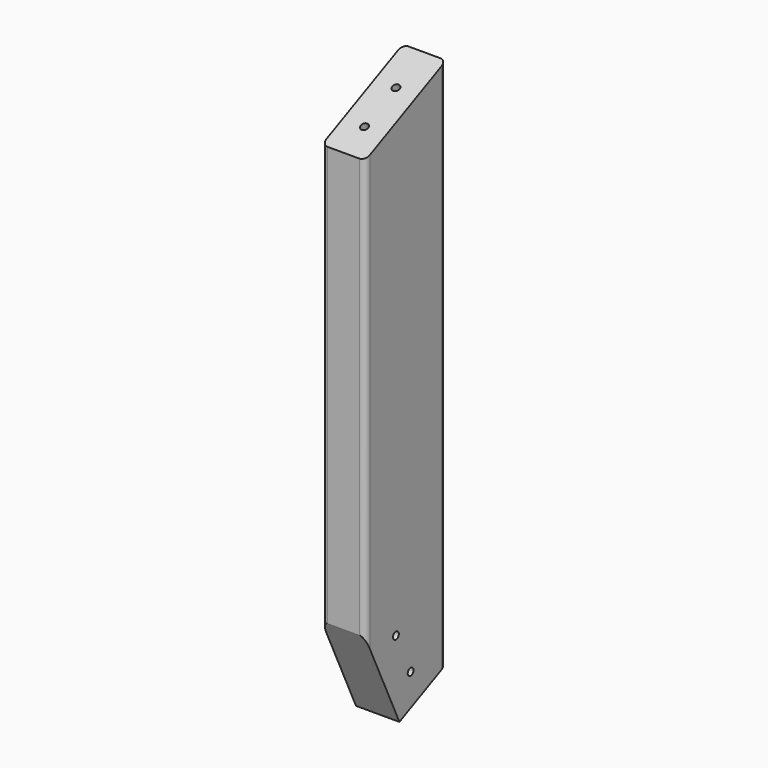
from build123d import *

# Parameters (mm, degrees)
F0_W     = 38.1
F0_H     = 88.9
F1_DEPTH = 254
F3_DEPTH = 38.101
F5_D     = 6.35
F6_R     = 5.08
F8_D     = 6.35
F8_DEPTH = 25.4
F8_TIP   = 1.9077324654


with BuildPart() as f1:
    # F0 (on Top) → F1 (new body, symmetric)
    with BuildSketch(Plane.XY):
        Rectangle(F0_W, F0_H)
    extrude(amount=F1_DEPTH, both=True)

    # F2 (on face) → F3 (cut, through all)
    with BuildSketch(Plane.YZ.offset(19.05)):
        Polygon((-44.45, 254), (-44.45, 212.54524919), (44.45, 254), align=None)
        Polygon((-6.8792365313, -236.4804652718), (-44.45, -254), (44.45, -254), (44.45, -212.54524919), align=None)
        Polygon((-44.45, -155.9097030042), (-44.45, -254), (-6.8792365313, -236.4804652718), align=None)
    extrude(amount=-F3_DEPTH, mode=Mode.SUBTRACT)

    # F5 (through all)
    with Locations(Plane.YZ.offset(19.05)):
        with Locations((-10.6952783611, -168.1954169468), (5.4064774113, -202.7257436328)):
            Hole(F5_D / 2)

    # F6
    f6_edges = [f1.edges().sort_by_distance(p)[0] for p in [
        (19.05, -44.45, 28.317773),
        (-19.05, -44.45, 28.317773),
        (19.05, 44.45, 20.727375),
        (-19.05, 44.45, 20.727375),
    ]]
    fillet(f6_edges, radius=F6_R)

    # F8
    with Locations(Plane(origin=(0, -89.3485989014, 191.6086886819), x_dir=(1, 0, 0), z_dir=(0, -0.4226182617, 0.906307787))):
        with Locations((0, 113.0401226202), (0, 74.9401226202)):
            Hole(F8_D / 2, depth=F8_DEPTH)
            with Locations((0, 0, -(F8_DEPTH + F8_TIP / 2))):  # 118° drill point
                Cone(0, F8_D / 2, F8_TIP, mode=Mode.SUBTRACT)


solid = f1.part
